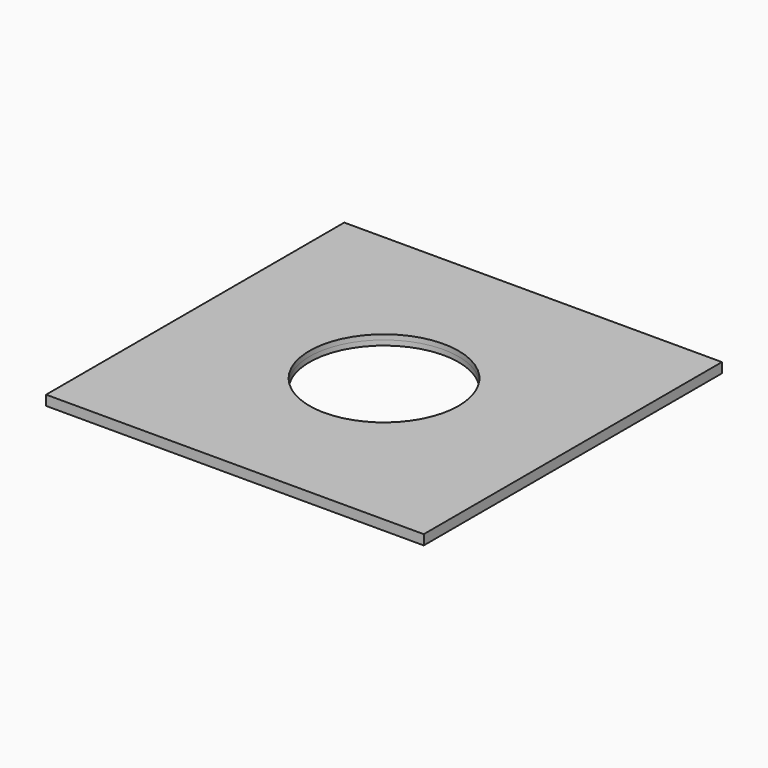
from build123d import *

# Parameters (mm, degrees)
F0_W          = 380
F0_H          = 375
F0_R          = 75
F1_DEPTH      = 5
F1_DEPTH_BACK = 5


with BuildPart() as f1:
    # F0 (on Top) → F1 (new body, two sides)
    with BuildSketch(Plane.XY) as f1_sk:
        Rectangle(F0_W, F0_H)
        Circle(F0_R, mode=Mode.SUBTRACT)
    extrude(amount=F1_DEPTH)
    extrude(f1_sk.sketch, amount=-F1_DEPTH_BACK)


solid = f1.part
